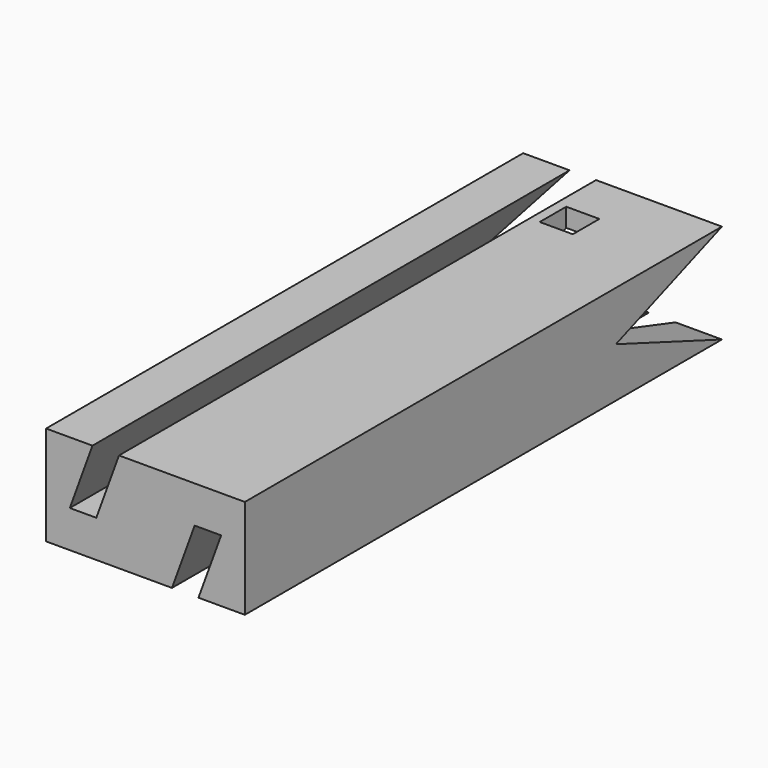
from build123d import *

# Parameters (mm, degrees)
F1_DEPTH = 160
F2_W     = 10
F2_H     = 10
F3_DEPTH = 60
F5_DEPTH = 60


with BuildPart() as f1:
    # F0 (on Front) → F1 (new body, symmetric)
    with BuildSketch(Plane.XZ):
        Polygon((30, -15), (30, 15), (-8, 15), (-14.8404028665, -3.7938524157), (-22.8404028665, -3.7938524157), (-16, 15), (-30, 15), (-30, -15), (8, -15), (14.8404028665, 3.7938524157), (22.8404028665, 3.7938524157), (16, -15), align=None)
    extrude(amount=F1_DEPTH, both=True)

    # F2 (on face) → F3 (cut)
    with BuildSketch(Plane.XY.offset(15)):
        Rectangle(F2_W, F2_H)
    extrude(amount=-F3_DEPTH, mode=Mode.SUBTRACT)

    # F4 (on face) → F5 (intersect)
    with BuildSketch(Plane.YZ.offset(30)):
        Polygon((0, 7.5), (0, 15), (-160, 15), (-160, -15), (0, -15), (0, -7.5), (-20, 0), align=None)
        Polygon((20, 15), (0, 15), (0, 7.5), align=None)
        Polygon((0, -15), (20, -15), (0, -7.5), align=None)
    extrude(amount=-F5_DEPTH, mode=Mode.INTERSECT)


solid = f1.part
